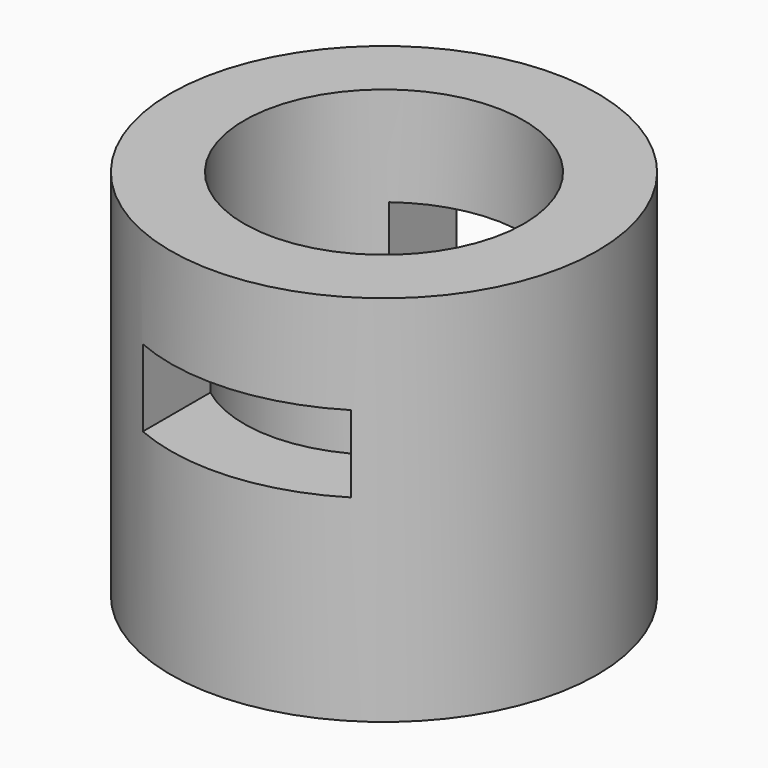
from build123d import *

# Parameters (mm, degrees)
F0_R     = 29.05
F0_R_2   = 19.05
F1_DEPTH = 50.8
F2_W     = 26.768681
F2_H     = 10.474702
F3_DEPTH = 50.8


with BuildPart() as f1:
    # F0 (on Top) → F1 (new body)
    with BuildSketch(Plane.XY):
        Circle(F0_R)
        Circle(F0_R_2, mode=Mode.SUBTRACT)
    extrude(amount=F1_DEPTH)


with BuildPart() as f3:
    # F2 (on Front) → F3 (new body, symmetric)
    with BuildSketch(Plane.XZ):
        with Locations((1.88487, 32.046725)):
            Rectangle(F2_W, F2_H)
    extrude(amount=F3_DEPTH, both=True)


with BuildPart() as f1_1:
    add(f1.part)

    # F4: cut F3
    add(f3.part, mode=Mode.SUBTRACT)


solid = f1_1.part
